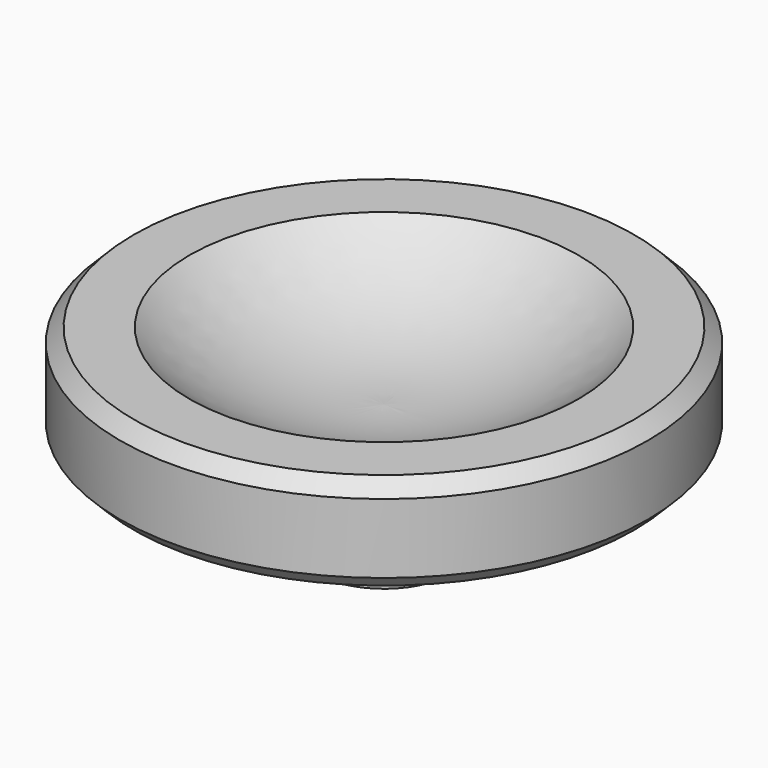
from build123d import *

# Parameters (mm, degrees)
F2_SIZE = 0.5


with BuildPart() as f1:
    # F0 (on Front) → F1 (revolve)
    with BuildSketch(Plane.XZ):
        with BuildLine():
            Line((0, 4.55137), (0, 0))
            Line((0, 0), (2.475, 0))
            Line((2.475, 0), (2.475, 3.5))
            Line((2.475, 3.5), (9.5, 3.5))
            Line((9.5, 3.5), (9.5, 7))
            Line((9.5, 7), (7, 7))
            ThreePointArc((7, 7), (3.741038, 5.08662), (0, 4.55137))
        make_face()
    revolve(axis=Axis((0, 0, 2.275685), (0, 0, 1)))

    # F2
    f2_edges = [f1.edges().sort_by_distance(p)[0] for p in [
        (-9.5, 0, 7),
        (-9.5, 0, 3.5),
    ]]
    chamfer(f2_edges, length=F2_SIZE)


solid = f1.part
